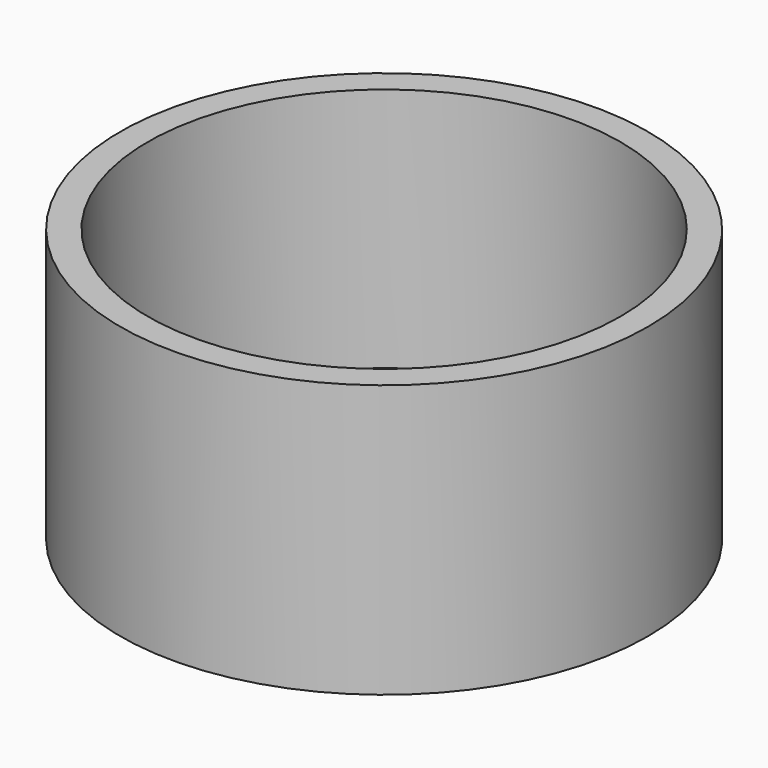
from build123d import *

# Parameters (mm, degrees)
SKETCH_R     = 7.75
PAD_DEPTH    = 8
SKETCH001_R  = 6.94
POCKET_DEPTH = 7.2


with BuildPart() as part:
    # Sketch → Pad (new body)
    with BuildSketch(Plane.XY):
        Circle(SKETCH_R)
    extrude(amount=PAD_DEPTH)

    # Sketch001 (on Face3 of Pad) → Pocket (cut)
    with BuildSketch(Plane.XY.offset(8)):
        Circle(SKETCH001_R)
    extrude(amount=-POCKET_DEPTH, mode=Mode.SUBTRACT)


solid = part.part
